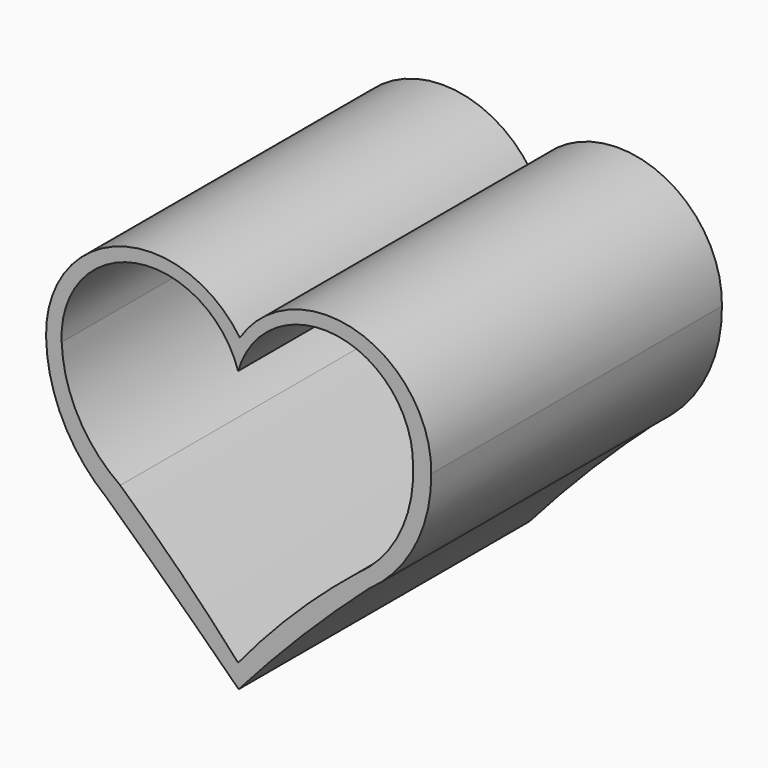
from build123d import *

# Parameters (mm, degrees)
F1_DEPTH = 254


with BuildPart() as f1:
    # F0 (on Front) → F1 (new body)
    with BuildSketch(Plane.XZ):
        with BuildLine():
            ThreePointArc((225.566566, 91.504008), (257.890229, 128.502922), (269.227884, 176.30665))
            ThreePointArc((269.227884, 176.30665), (217.612586, 247.184091), (135.44406, 216.588601))
            ThreePointArc((135.44406, 216.588601), (51.440865, 245.525053), (0, 173.084095))
            ThreePointArc((0, 173.084095), (11.643976, 125.591314), (42.517263, 87.67052))
            ThreePointArc((42.517263, 87.67052), (88.966695, 44.256602), (134.613942, 0))
            ThreePointArc((134.613942, 0), (178.704249, 47.129657), (225.566566, 91.504008))
        make_face()
        with BuildLine():
            ThreePointArc((134.232268, 195.702955), (203.46583, 239.896461), (256.467342, 177.149415))
            ThreePointArc((256.467342, 177.149415), (247.266088, 132.844794), (217.723206, 98.569721))
            ThreePointArc((217.723206, 98.569721), (173.843385, 59.532574), (134.232268, 16.170183))
            ThreePointArc((134.232268, 16.170183), (94.19311, 58.530562), (51.832732, 98.569721))
            ThreePointArc((51.832732, 98.569721), (22.568684, 131.131811), (10.905804, 173.329577))
            ThreePointArc((10.905804, 173.329577), (62.711202, 238.854585), (134.232268, 195.702955))
        make_face(mode=Mode.SUBTRACT)
    extrude(amount=F1_DEPTH)


solid = f1.part
